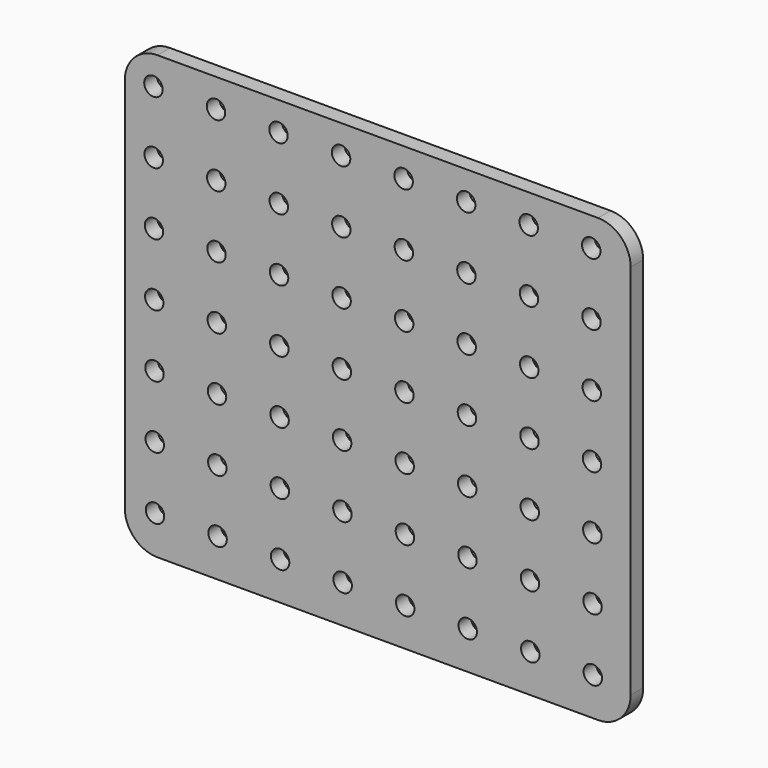
from build123d import *

# Parameters (mm, degrees)
F0_W     = 78.6892
F0_H     = 68.7578
F1_DEPTH = 2.4384
F2_R     = 1.4351
F3_DEPTH = 2.54
F4_R     = 5.08


with BuildPart() as f1:
    # F0 (on Front) → F1 (new body)
    with BuildSketch(Plane.XZ):
        with Locations((-39.3446, 34.3789)):
            Rectangle(F0_W, F0_H)
    extrude(amount=F1_DEPTH)

    # F2 (on face) → F3 (cut)
    with BuildSketch(Plane.XZ.offset(2.4384)):
        with Locations((-74.2315, 64.3001)):
            Circle(F2_R)
        with Locations((-64.5033, 64.3001)):
            Circle(F2_R)
        with Locations((-54.7751, 64.3001)):
            Circle(F2_R)
        with Locations((-45.0469, 64.3001)):
            Circle(F2_R)
        with Locations((-35.3187, 64.3001)):
            Circle(F2_R)
        with Locations((-15.8623, 64.3001)):
            Circle(F2_R)
        with Locations((-6.1341, 64.3001)):
            Circle(F2_R)
        with Locations((-74.190384, 54.571987)):
            Circle(F2_R)
        with Locations((-64.462184, 54.571987)):
            Circle(F2_R)
        with Locations((-54.733984, 54.571987)):
            Circle(F2_R)
        with Locations((-45.005784, 54.571987)):
            Circle(F2_R)
        with Locations((-35.277584, 54.571987)):
            Circle(F2_R)
        with Locations((-6.092984, 54.571987)):
            Circle(F2_R)
        with Locations((-25.5905, 64.3001)):
            Circle(F2_R)
        with Locations((-25.549384, 54.571987)):
            Circle(F2_R)
        with Locations((-74.149267, 44.843874)):
            Circle(F2_R)
        with Locations((-54.692867, 44.843874)):
            Circle(F2_R)
        with Locations((-44.964667, 44.843874)):
            Circle(F2_R)
        with Locations((-25.508267, 44.843874)):
            Circle(F2_R)
        with Locations((-6.051867, 44.843874)):
            Circle(F2_R)
        with Locations((-54.651751, 35.115761)):
            Circle(F2_R)
        with Locations((-44.923551, 35.115761)):
            Circle(F2_R)
        with Locations((-35.195351, 35.115761)):
            Circle(F2_R)
        with Locations((-15.738951, 35.115761)):
            Circle(F2_R)
        with Locations((-6.010751, 35.115761)):
            Circle(F2_R)
        with Locations((-74.067035, 25.387648)):
            Circle(F2_R)
        with Locations((-64.338835, 25.387648)):
            Circle(F2_R)
        with Locations((-44.882435, 25.387648)):
            Circle(F2_R)
        with Locations((-35.154235, 25.387648)):
            Circle(F2_R)
        with Locations((-25.426035, 25.387648)):
            Circle(F2_R)
        with Locations((-5.969635, 25.387648)):
            Circle(F2_R)
        with Locations((-74.025919, 15.659534)):
            Circle(F2_R)
        with Locations((-64.297719, 15.659534)):
            Circle(F2_R)
        with Locations((-44.841319, 15.659534)):
            Circle(F2_R)
        with Locations((-25.384919, 15.659534)):
            Circle(F2_R)
        with Locations((-64.421067, 44.843874)):
            Circle(F2_R)
        with Locations((-35.236467, 44.843874)):
            Circle(F2_R)
        with Locations((-15.780067, 44.843874)):
            Circle(F2_R)
        with Locations((-74.108151, 35.115761)):
            Circle(F2_R)
        with Locations((-64.379951, 35.115761)):
            Circle(F2_R)
        with Locations((-25.467151, 35.115761)):
            Circle(F2_R)
        with Locations((-15.697835, 25.387648)):
            Circle(F2_R)
        with Locations((-54.569519, 15.659534)):
            Circle(F2_R)
        with Locations((-15.656719, 15.659534)):
            Circle(F2_R)
        with Locations((-54.528402, 5.931421)):
            Circle(F2_R)
        with Locations((-44.800202, 5.931421)):
            Circle(F2_R)
        with Locations((-25.343802, 5.931421)):
            Circle(F2_R)
        with Locations((-15.615602, 5.931421)):
            Circle(F2_R)
        with Locations((-15.821184, 54.571987)):
            Circle(F2_R)
        with Locations((-54.610635, 25.387648)):
            Circle(F2_R)
        with Locations((-5.928519, 15.659534)):
            Circle(F2_R)
        with Locations((-35.072002, 5.931421)):
            Circle(F2_R)
        with Locations((-35.113119, 15.659534)):
            Circle(F2_R)
        with Locations((-5.887402, 5.931421)):
            Circle(F2_R)
        with Locations((-73.984802, 5.931421)):
            Circle(F2_R)
        with Locations((-64.256602, 5.931421)):
            Circle(F2_R)
    extrude(amount=-F3_DEPTH, mode=Mode.SUBTRACT)

    # F4
    f4_edges = [f1.edges().sort_by_distance(p)[0] for p in [
        (-78.6892, -1.2192, 68.7578),
        (-78.6892, -1.2192, 0),
        (0, -1.2192, 0),
        (0, -1.2192, 68.7578),
    ]]
    fillet(f4_edges, radius=F4_R)


solid = f1.part
